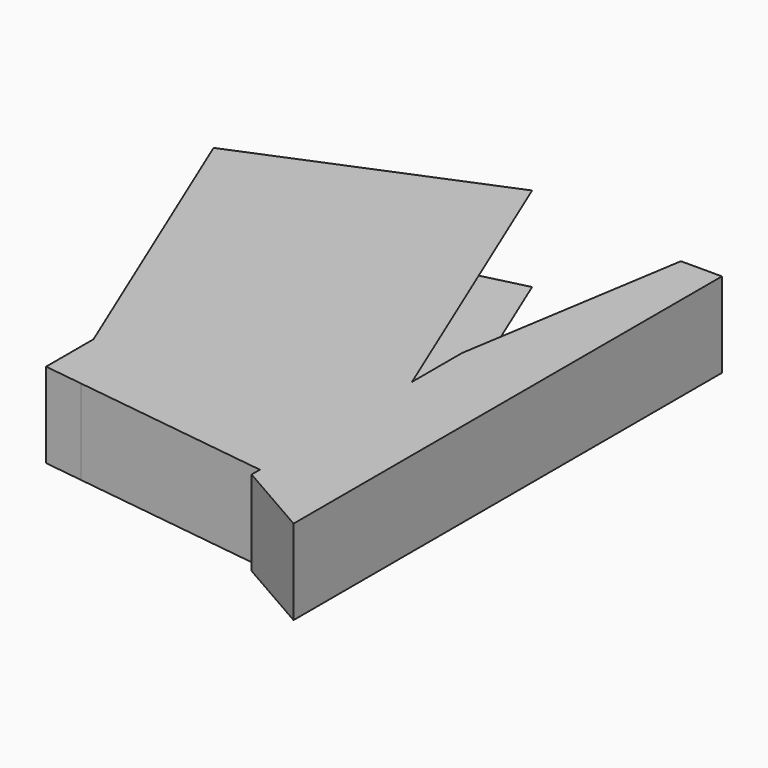
from build123d import *

# Parameters (mm, degrees)
F1_DEPTH = 15.1771064848
F3_DEPTH = 60.1903162897


with BuildPart() as f1:
    # F0 (on Top) → F1 (new body)
    with BuildSketch(Plane.XY):
        with BuildLine():
            Line((0, 48.4988354146), (0, 51.8917068839))
            Line((0, 51.8917068839), (-7.3258727789, 51.8917068839))
            Line((-7.3258727789, 51.8917068839), (-13.8377696276, 11.1923217773))
            Line((-13.8377696276, 11.1923217773), (-13.8377696276, 0))
            Line((-13.8377696276, 0), (-13.8377696276, -33.9737426353))
            Line((-13.8377696276, -33.9737426353), (0, -35.8154624701))
            Line((0, -35.8154624701), (0, 22.8033978492))
            add(Edge.make_bspline(
                [(-8.2446089201, 26.9673866569), (-5.2873253876, 24.8564816369), (-2.3300421202, 22.7455758269), (0, 22.8033978492)],
                knots=[0, 0, 0, 0, 0.556484017, 0.556484017, 0.556484017, 0.556484017], degree=3))
            Line((-8.2446089201, 26.9673866569), (-5.2558612078, 45.6470735371))
            add(Edge.make_bspline(
                [(-5.2558612078, 45.6470735371), (-3.6259447116, 46.9050929416), (-1.9960278435, 48.1631122934), (0, 48.4988354146)],
                knots=[0, 0, 0, 0, 0.4632143098, 0.4632143098, 0.4632143098, 0.4632143098], degree=3))
        make_face()
        Polygon((-13.8377696276, -33.9737426353), (-13.8377696276, 0), (-56.572124362, -17.7042335272), (-56.572124362, -28.2860696316), (-49.560756886, -29.2192384078), (-42.7343398333, -30.1277914496), align=None)
        with BuildLine():
            Line((0, 22.8033978492), (0, 48.4988354146))
            add(Edge.make_bspline(
                [(-5.2558612078, 45.6470735371), (-3.6259447116, 46.9050929416), (-1.9960278435, 48.1631122934), (0, 48.4988354146)],
                knots=[0, 0, 0, 0, 0.4632143098, 0.4632143098, 0.4632143098, 0.4632143098], degree=3))
            Line((-5.2558612078, 45.6470735371), (-8.2446089201, 26.9673866569))
            add(Edge.make_bspline(
                [(-8.2446089201, 26.9673866569), (-5.2873253876, 24.8564816369), (-2.3300421202, 22.7455758269), (0, 22.8033978492)],
                knots=[0, 0, 0, 0, 0.556484017, 0.556484017, 0.556484017, 0.556484017], degree=3))
        make_face()
        Polygon((0, -43.7518358231), (0, -35.8154624701), (-13.8377696276, -33.9737426353), (-13.8377696276, -35.8154624701), align=None)
    extrude(amount=F1_DEPTH)

    # F2 (on face) → F3 (join)
    with BuildSketch(Plane(origin=(-2.0270972326, 4.8929930847, 0), x_dir=(-0.9238559571, -0.3827403435, 0), z_dir=(-0.3827403435, 0.9238559571, 0))):
        Polygon((12.7841059034, 15.1771064848), (59.0406185189, 7.5885532424), (59.0406185189, 15.1771064848), align=None)
        Polygon((59.0406185189, 0), (59.0406185189, 3.9701685309), (12.7841059034, 0), align=None)
    extrude(amount=F3_DEPTH)


solid = f1.part
